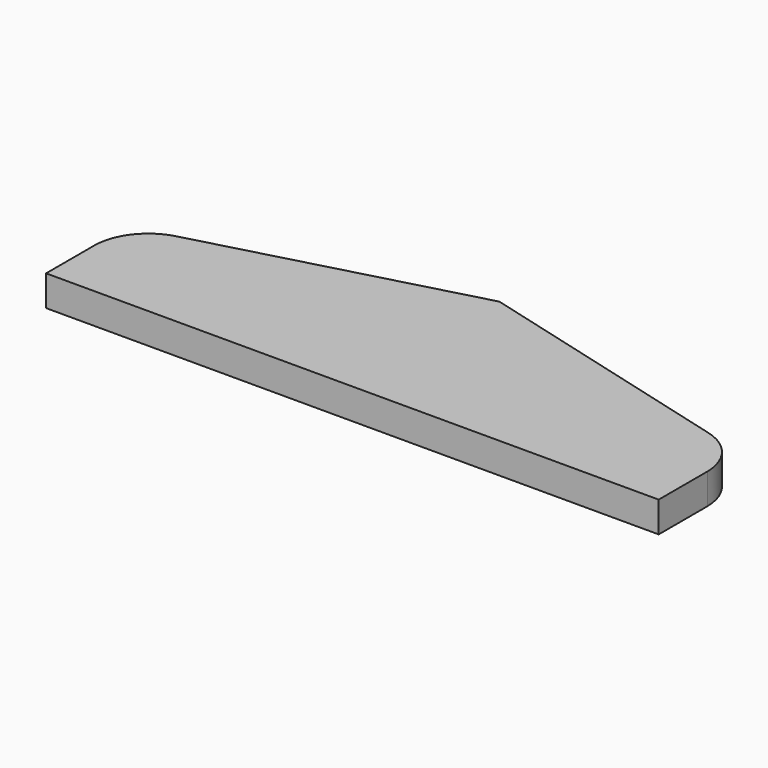
from build123d import *

# Parameters (mm, degrees)
F1_DEPTH = 5


with BuildPart() as f1:
    # F0 (on Top) → F1 (new body)
    with BuildSketch(Plane.XY):
        with BuildLine():
            Line((-50, 0), (0, 0))
            Line((0, 0), (0, 30))
            Line((0, 30), (-43.464365, 18.344573))
            ThreePointArc((-43.464365, 18.344573), (-48.12497, 15.263145), (-50, 10))
            Line((-50, 10), (-50, 0))
        make_face()
        with BuildLine():
            Line((0, 30), (0, 0))
            Line((0, 0), (50, 0))
            Line((50, 0), (50, 10))
            ThreePointArc((50, 10), (48.12497, 15.263145), (43.464365, 18.344573))
            Line((43.464365, 18.344573), (0, 30))
        make_face()
    extrude(amount=F1_DEPTH)


solid = f1.part
